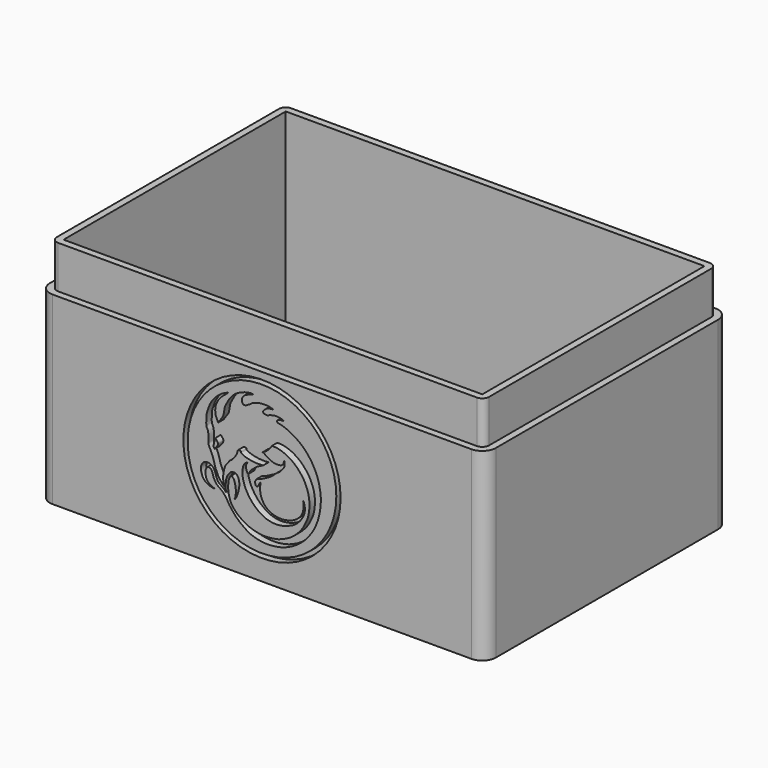
from build123d import *

# Parameters (mm, degrees)
F5_W      = 104.4
F5_H      = 71.4
F7_DEPTH  = 53.2
F4_W      = 98
F4_H      = 65
F8_DEPTH  = 50
F9_R      = 3.2
F12_START = 34.1
F10_R     = 18.4
F10_R_2   = 17.4
F12_DEPTH = 1.6
F13_START = -34.1
F13_DEPTH = 1.6
F6_W      = 104.4
F6_H      = 71.4
F6_W_2    = 101.2
F6_H_2    = 68.2
F14_DEPTH = 10
F15_R     = 1.6


with BuildPart() as f7:
    # F5 (on Top) → F7 (new body)
    with BuildSketch(Plane.XY):
        Rectangle(F5_W, F5_H)
    extrude(amount=-F7_DEPTH)

    # F4 (on Top) → F8 (cut)
    with BuildSketch(Plane.XY):
        Rectangle(F4_W, F4_H)
    extrude(amount=-F8_DEPTH, mode=Mode.SUBTRACT)

    # F9
    f9_edges = [f7.edges().sort_by_distance(p)[0] for p in [
        (-52.2, 35.7, -26.6),
        (52.2, 35.7, -26.6),
        (52.2, -35.7, -26.6),
        (-52.2, -35.7, -26.6),
    ]]
    fillet(f9_edges, radius=F9_R)

    # F11 (on Front) + F10 (on Front) → F12 (cut)
    with BuildSketch(Plane.XZ.offset(F12_START)):
        with BuildLine():
            add(Edge.make_bspline(
                [(-8.7181907147, -36.4885218441), (-8.6552114295, -36.4251532572), (-9.1774197329, -35.3604223824), (-9.0763019791, -34.0029444977), (-8.828732201, -32.8423084527), (-8.5498700199, -31.9286806131), (-7.7328841636, -31.1172117678), (-7.6823945529, -30.7812770575), (-7.0763392584, -30.5117558951), (-6.4689414057, -29.8069032301), (-6.0230796881, -29.1314206897), (-5.7451191394, -28.4740972303), (-5.6880337443, -27.8750404337), (-5.3456063537, -27.9084773912), (-5.1126380176, -27.9067488714), (-4.8925945184, -27.8870948801), (-4.8866175598, -28.3553030116), (-4.7108632793, -28.3762917472), (-4.0061202728, -28.7799613291), (-3.4185608792, -28.9092313022), (-2.3620370455, -29.1692663245), (-1.2254694638, -29.2396805568), (-0.3893782089, -29.2748124819), (0.6377939585, -29.1054223146), (-0.913640333, -29.709655676), (-1.7728883921, -30.3889449982), (-2.8497735888, -31.3080420127), (-3.2332788353, -32.418780918), (-3.6169238053, -31.4607617548), (-3.8245092878, -30.8034843996), (-3.7040138594, -30.1802180618), (-3.085686736, -29.5911494866), (-4.029609236, -30.0417210541), (-4.465190418, -30.8930904609), (-4.606683454, -32.0735455565), (-4.5768331238, -32.8928463105), (-4.3683268923, -33.7484634069), (-4.061538293, -34.9651611557), (-3.2734661836, -36.3538217502), (-2.4426976646, -37.5208090554), (-1.4551209592, -38.4775585832), (-0.6451184496, -39.0912512473), (0.1471500176, -39.5866193486), (1.0486648407, -40.0125001972), (2.3475154728, -40.3158560034), (3.6092467825, -40.360442254), (4.7236643023, -40.1927927906), (5.8315007774, -39.9304567946), (6.7718574592, -39.4824379165), (7.5021039042, -39.1645628899), (8.2059119951, -38.5962864819), (8.8773120111, -37.9342974406), (9.4662836259, -37.0704112976), (9.8640937575, -36.3033210805), (10.1086653911, -35.1833315934), (9.9868571353, -34.3885924415), (9.8069657923, -33.6392235744), (9.5669974709, -33.382485466), (9.7500237722, -33.7870908809), (9.771110973, -34.7722507818), (9.604890861, -35.8154332896), (9.166111718, -36.7759248645), (8.0262577799, -37.8850653183), (6.7399501479, -38.4898677639), (5.1912056338, -38.8577200045), (3.9314687591, -38.8393551313), (2.7119090153, -38.6317517814), (1.5918094549, -38.1189842017), (0.7392860548, -37.4522260981), (0.1333106206, -36.57206621), (-0.2722250838, -35.6816129951), (-0.4855824935, -34.5565912609), (-0.4119791522, -33.4140087553), (-0.3275560644, -33.0858288862), (-0.2852217109, -32.7480392613), (-0.5053907661, -33.0260593114), (-0.6193883659, -33.2047051451), (-0.7849410845, -33.6766096018), (-0.9825706401, -33.9204455282), (-1.2407352633, -34.0332197752), (-1.3976409308, -33.9997114595), (-1.542563198, -33.7187065789), (-1.5866921597, -33.4829939227), (-1.6239637387, -33.1381126583), (-1.506980112, -32.8670098089), (-1.2664035746, -32.5124032347), (-1.1895786855, -32.4243864711), (-0.410307392, -32.2620018142), (0.2731496713, -31.9210131692), (1.5532849537, -31.2656510126), (1.9816652711, -30.9686339146), (2.5933790649, -30.5712013727), (3.0610475122, -30.0713670994), (3.4845216358, -29.6455904318), (4.2224434181, -29.3342287118), (4.4793713513, -28.8334328995), (4.84210541, -28.5311016173), (5.2390010427, -27.995720586), (5.3560023277, -27.215525116), (5.3056372824, -26.8144170231), (5.0952073765, -26.3902337537), (5.1846268016, -26.7727281397), (5.0782546879, -27.1054745911), (4.9148621934, -27.5086207027), (4.6343932226, -27.7396789629), (4.2510427445, -27.8817191101), (3.5487959603, -27.974061997), (2.6013579068, -27.8680122341), (1.5208287079, -27.3757705796), (0.7432212486, -26.8276157169), (0.3491677762, -26.5492549304), (0.1082770913, -26.5124145935), (0.3532088925, -26.3908108204), (1.0975019636, -26.007864144), (1.5987293688, -25.4316149521), (2.179907441, -24.8422674238), (2.2666788699, -24.5900209394), (2.3178458846, -24.467206256), (2.4979546544, -24.5258888387), (3.1374792307, -24.4771387446), (3.830620708, -24.6224778435), (4.6683928777, -24.8322473211), (5.458638387, -25.1619129219), (6.0213728289, -25.4025431362), (6.60963825, -25.7774625288), (7.1673500281, -26.1300368431), (7.9790896417, -26.8056272808), (8.5934295083, -27.4569472157), (9.2497931543, -28.2370491721), (9.6576042275, -28.8482063769), (10.0282651308, -29.4670795928), (10.3363991668, -30.1401661259), (10.6879102506, -31.0332242307), (10.9068898785, -31.804709397), (11.0008157478, -32.5509260726), (11.1903335413, -33.6728545382), (11.0829901611, -34.8703630935), (10.8308969126, -36.447675056), (10.4228252011, -37.417217485), (9.8296817813, -38.6982374774), (9.0947144426, -39.778049455), (7.9022561596, -41.0590657134), (6.7563945112, -41.9234034282), (5.8217118639, -42.4559340155), (4.5337607716, -43.0524179279), (3.2606677742, -43.4468807177), (1.4687142295, -43.6379941278), (0.4409152373, -43.6735141019), (-0.6929114492, -43.5650223766), (-2.1438640859, -43.2119024447), (-3.1253785068, -42.8676694677), (-4.2821045125, -42.2291113881), (-5.375192444, -41.5295242193), (-6.3200161956, -40.6749119875), (-7.1852407631, -39.5885698805), (-7.6332757481, -38.411523213), (-7.8832899779, -37.2886216642), (-7.9430802304, -36.0376486105), (-7.8498872215, -34.9411224754), (-7.6311094477, -34.3157870486), (-7.2944607493, -33.823787552), (-7.0931632601, -33.6670287029), (-6.9529418322, -33.8476401052), (-6.564929655, -34.2328357187), (-6.2873640142, -35.0348691251), (-6.1076005183, -36.0395686381), (-6.1045254871, -37.2647471274), (-6.2545753282, -38.0179604746), (-6.5065743973, -38.434092711), (-6.1362766202, -38.0868575882), (-5.8632883216, -37.5624521757), (-5.4808001948, -36.4243609401), (-5.2564957019, -35.2092862583), (-5.3158651644, -34.1817666536), (-5.6579314725, -33.3281382094), (-5.8697272146, -33.1608253373), (-6.2275560454, -32.7958210179), (-6.9456241663, -32.8620688942), (-7.1888993988, -32.8984238787), (-7.5390130992, -33.2146939438), (-8.0184591025, -33.8476526615), (-8.4193886193, -34.7186547006), (-8.5063589971, -35.9737161029), (-8.4741900302, -36.4352402348), (-8.4881180962, -37.3027013776), (-8.4312539775, -37.6549512759), (-8.6081403421, -37.289478484), (-9.052123137, -36.8929386288), (-9.722820911, -36.4265168393), (-9.9366265326, -36.3243245607), (-10.341455275, -35.9085333834), (-10.5685085882, -35.4078389186), (-10.775050852, -34.906534787), (-10.9115923097, -34.2776664251), (-11.1943963869, -33.6617835629), (-11.6053311316, -33.1630776441), (-12.437225165, -32.7485214016), (-13.1545034449, -32.7620879422), (-13.7647449242, -33.0771859179), (-14.1679877704, -33.7070781478), (-14.4104952103, -34.5633170643), (-14.1690665292, -35.3643036083), (-13.938075538, -36.1039594073), (-13.5398936248, -36.6486867479), (-13.0119494518, -37.1108543674), (-12.444267481, -37.4022790557), (-11.7278923102, -37.6074750822), (-11.3867921296, -37.6965702284), (-11.0507333017, -37.6043335493), (-11.4082162329, -37.5773148641), (-11.9061390081, -37.2789636971), (-12.5999770018, -36.8811581433), (-13.1060968781, -36.125581855), (-13.2315737478, -35.2637957693), (-13.2184581343, -34.4072209811), (-13.0021806245, -34.1290830295), (-12.7889496541, -33.7273060458), (-12.5137126323, -33.6364067188), (-12.2941489511, -33.7499492071), (-11.9233248626, -33.8147967888), (-11.6066556006, -34.4786957663), (-11.404664192, -35.1848336026), (-11.2542153795, -35.6359047436), (-10.985014711, -36.0863080262), (-10.7125308972, -36.5033147574), (-10.4573426105, -36.7437926918), (-9.754690451, -37.2520059403), (-9.1015477127, -37.7474279081), (-8.6279720185, -38.3625958907), (-8.2144707514, -38.8856827642), (-7.782816716, -39.7483217824), (-7.1148552453, -40.6202979909), (-6.1808412038, -41.7722345522), (-5.7151376509, -42.175752819), (-5.1380879544, -42.7499303199), (-4.1163691675, -43.4548704708), (-3.1117823752, -44.1527351321), (-1.8556867948, -44.6490697327), (-0.2435358307, -45.042662804), (1.6570564387, -45.1292058944), (2.988059599, -45.0144464701), (4.5376284804, -44.7405461747), (5.9819197253, -44.2239205694), (7.6363003606, -43.4015429542), (9.1316199738, -42.3026717139), (10.300932367, -41.2106644728), (11.2197463336, -40.0300190285), (12.137064416, -38.7220063294), (12.830003012, -37.1053780891), (13.3261307194, -35.7243828554), (13.6611694576, -33.9096336009), (13.7755273364, -32.5408383421), (13.7920974197, -31.0797439273), (13.5160723658, -29.4201281539), (13.2556487, -28.2031311972), (12.6453869863, -26.6128810613), (12.2094156015, -25.7886778193), (11.6343853152, -24.751999127), (10.8869610678, -23.7131137675), (10.0175935881, -22.7168818397), (8.9849140639, -21.7867918211), (7.7988024974, -20.9293910474), (6.8608428204, -20.4448441541), (6.0284213657, -19.9929947649), (4.637495892, -19.4754138889), (3.8037073426, -19.349789141), (3.6248951803, -19.2848008433), (3.4874185895, -19.106688827), (3.4891812767, -18.8740136127), (3.6989623285, -18.7602710903), (4.0707164221, -18.5920488081), (4.3350781236, -18.5218775521), (4.8063781394, -18.4779916837), (5.1377190673, -18.5505109724), (4.8533700284, -18.2562255568), (4.3346655397, -18.1571113596), (3.5473476757, -18.0275050265), (2.6148213241, -18.0726771032), (1.5587590102, -18.4155132083), (1.1987079383, -18.6218463596), (0.950796033, -18.5299519962), (0.6152422429, -18.5196358919), (0.41106126, -18.398197234), (0.283045041, -18.3416541432), (0.2576728132, -18.1698288822), (0.1331039609, -18.0633826452), (0.527561436, -17.7087851589), (0.8682045583, -17.3201479975), (1.5487025801, -17.0012234802), (2.2175412968, -16.9566706163), (2.4567695139, -16.9372002991), (2.763921487, -16.9439694524), (2.3945053929, -16.798587949), (1.9190654201, -16.6344831544), (1.1391565838, -16.5390947941), (-0.2303868686, -16.5068481542), (-1.2110542395, -16.8137087923), (-2.0986010774, -17.0263339227), (-2.4262884404, -17.3589911258), (-3.131194887, -17.768900336), (-3.5140352893, -18.0100173475), (-3.8247600528, -18.152863301), (-4.2084150263, -18.2229472215), (-4.443171227, -18.0865318863), (-4.608169843, -17.9168056006), (-4.6487550758, -17.7029720977), (-4.7208414004, -17.2535627492), (-4.6606321225, -16.9053896982), (-4.4211674051, -16.4664487801), (-3.9723502457, -16.0994882976), (-3.2895840807, -15.7540042149), (-2.4296455127, -15.4222995088), (-2.0532457101, -15.3209257254), (-2.4578234328, -15.2124766358), (-3.3171071159, -15.3127234317), (-4.2562308746, -15.5561872599), (-5.3970072514, -16.0143788552), (-6.4181594755, -16.6212377105), (-7.336559727, -17.6324334464), (-7.8583967135, -18.384104161), (-8.3678359539, -19.3441915617), (-8.5972140045, -19.8422849472), (-8.6929577488, -19.9887712491), (-8.7335681219, -20.4414236168), (-8.8999050407, -21.3111365064), (-9.0240628387, -22.0017881186), (-9.5546648271, -22.8235895037), (-9.9654490598, -23.3583207436), (-10.1536421065, -23.4970763943), (-10.213538541, -23.8659534419), (-10.331106026, -23.5895529239), (-10.4292964137, -23.3589459655), (-10.7368609556, -22.7510350288), (-10.9228637586, -22.226619996), (-10.9609091771, -21.329408833), (-10.8877016644, -20.6252332755), (-10.6202247043, -19.831751459), (-10.138904862, -18.9346516226), (-9.3824890807, -18.1125730616), (-8.5915631591, -17.4527060793), (-8.289522873, -17.2324254668), (-7.9075319347, -16.9207389251), (-7.8988157941, -16.7680642015), (-8.1164426654, -16.9313719307), (-8.7557946553, -17.1968150685), (-9.8373885994, -17.757678619), (-11.4263719962, -19.2008295144), (-12.2886114414, -20.7718199035), (-12.5857488379, -21.7005179826), (-13.0064518912, -22.7929649545), (-12.9939906853, -23.6406732167), (-13.0856029941, -24.5251861629), (-13.0133293687, -25.4611617355), (-12.9820175974, -25.5726392187), (-12.8159657584, -25.7491705622), (-12.5818671562, -26.4427457116), (-12.5049713187, -27.2431368054), (-12.5412521119, -28.0735774986), (-12.5940025899, -28.8680597164), (-12.4565274214, -29.126460692), (-12.2200027454, -29.5914364591), (-11.8826138075, -30.337429066), (-11.5074020388, -31.1571663571), (-11.3084242069, -31.8849191304), (-11.0581491809, -32.8911123786), (-10.7987494842, -33.6014051798), (-10.445861084, -34.2589841213), (-10.2705621772, -34.7028096524), (-9.9483539332, -35.2413553373), (-9.5058573209, -35.7678544614), (-9.1076615491, -36.220855579), (-8.923155888, -36.4088619227), (-8.7445474014, -36.5150414528), (-8.7181907147, -36.4885218441)],
                knots=[0, 0, 0, 0, 0.0032226753, 0.0071141027, 0.0105075841, 0.0136462602, 0.0169363882, 0.0186631925, 0.0210957184, 0.0241771479, 0.0270402821, 0.029757293, 0.0320012069, 0.0336244032, 0.0352047833, 0.0364758286, 0.0384151137, 0.039640213, 0.0424030286, 0.0449562496, 0.0482171813, 0.0516075443, 0.0547017562, 0.0569848909, 0.0602708324, 0.0638908559, 0.0677177818, 0.0704677941, 0.0730411046, 0.0758019932, 0.078363795, 0.0805663211, 0.0830356253, 0.0862558246, 0.0896743212, 0.0925244468, 0.0954418508, 0.0989787509, 0.102978468, 0.1067976162, 0.1104828341, 0.1136650262, 0.1166795328, 0.1198283078, 0.1234749471, 0.1270340668, 0.1303819896, 0.1337591089, 0.1369714966, 0.1397818551, 0.1427510696, 0.1458453771, 0.1490466777, 0.1520166167, 0.1553392938, 0.1582423604, 0.1610432164, 0.162395203, 0.1640039688, 0.1672156598, 0.1704821595, 0.1736967468, 0.1776214496, 0.181426695, 0.1853810017, 0.1889283225, 0.1924225424, 0.1959134261, 0.1991896721, 0.2024201954, 0.2055271729, 0.2089634208, 0.2122981295, 0.214231638, 0.2156148427, 0.2170931532, 0.2186976681, 0.2208912702, 0.2226915925, 0.2242947926, 0.2254672688, 0.2271710056, 0.2287742042, 0.2305745239, 0.2323475426, 0.2343578267, 0.2354299498, 0.2380823274, 0.2410541263, 0.2447811479, 0.2471245275, 0.2497633062, 0.2523842226, 0.2548439403, 0.2576186182, 0.2599303323, 0.262070454, 0.2646380298, 0.2674036659, 0.2695507985, 0.2712232926, 0.2726858467, 0.2746635146, 0.2767240361, 0.2785788969, 0.2805628361, 0.2831879524, 0.2862822559, 0.2897506478, 0.2928610022, 0.2950566553, 0.2962487896, 0.2975105011, 0.3004162221, 0.3033108437, 0.3061445753, 0.307736486, 0.308716005, 0.3099299108, 0.3124309653, 0.3151475032, 0.3180959732, 0.3210160989, 0.3234974532, 0.3260861236, 0.3286813234, 0.3318977025, 0.3349498, 0.338117483, 0.3408394754, 0.3434836892, 0.3462173526, 0.3493190772, 0.3521377582, 0.3548676316, 0.3581908955, 0.3617204643, 0.3656741565, 0.368953975, 0.3726407065, 0.3762942235, 0.3804764437, 0.3842531135, 0.3875265812, 0.3912323981, 0.3949577706, 0.3991678957, 0.402378238, 0.405731882, 0.4095808841, 0.4128317763, 0.4164287522, 0.4200428834, 0.4236082028, 0.4273177638, 0.4308442469, 0.4342273951, 0.4377874763, 0.4410838629, 0.4436727604, 0.4460972582, 0.4474824957, 0.4487955766, 0.4511048752, 0.4540014448, 0.4572344575, 0.4607504964, 0.4636163332, 0.4652404756, 0.4669480257, 0.4694829092, 0.472937988, 0.4764799261, 0.4797398848, 0.4826600085, 0.4842736246, 0.4864449603, 0.489061655, 0.4906196144, 0.4926879787, 0.4954966284, 0.4986637199, 0.5021270039, 0.5043967151, 0.5073808635, 0.5087909092, 0.5103361948, 0.5129371805, 0.5157516791, 0.5173167467, 0.5196438645, 0.522023329, 0.5243378859, 0.5268733529, 0.5294522148, 0.5319841056, 0.5349816148, 0.5376256094, 0.5401592471, 0.5428623854, 0.5457985234, 0.5486716407, 0.5514433994, 0.554023206, 0.5566371029, 0.5591963186, 0.5619039011, 0.5638715156, 0.5652791273, 0.5666867389, 0.5691674745, 0.5720033438, 0.5749519727, 0.5779504867, 0.5807976842, 0.5826655585, 0.5847460565, 0.5863318964, 0.5878500526, 0.5896837641, 0.5923279749, 0.5950822774, 0.5972508297, 0.5995397436, 0.6017344984, 0.6036017565, 0.6065107822, 0.6094389214, 0.6121809607, 0.6147574451, 0.6178011764, 0.6212133168, 0.6250311021, 0.6275091741, 0.6302951272, 0.6338280131, 0.6373364562, 0.6409697059, 0.6450725629, 0.649416573, 0.6530915774, 0.6570009868, 0.6609290228, 0.6652220041, 0.669542355, 0.6735269605, 0.677368346, 0.6813735702, 0.6855353219, 0.6894064961, 0.6936656783, 0.6973828547, 0.7012000344, 0.7052626702, 0.7088698135, 0.7129331159, 0.716022381, 0.7194095787, 0.7230047782, 0.72662953, 0.7303802495, 0.7342093457, 0.7374152601, 0.7405045253, 0.7444179846, 0.7472558689, 0.7485524995, 0.7499883756, 0.751398408, 0.752884204, 0.7548891312, 0.7565895682, 0.7588284345, 0.7602638498, 0.7618278584, 0.7641815854, 0.7669865626, 0.7701068117, 0.7734354851, 0.7753777341, 0.77692154, 0.7787521717, 0.7802814233, 0.7814065992, 0.78266561, 0.7837243016, 0.7858309141, 0.7882022976, 0.7909303102, 0.7934867791, 0.7951380429, 0.7964414504, 0.7979808232, 0.8003044952, 0.8031094718, 0.8067992246, 0.8100854702, 0.8129999796, 0.8151670718, 0.8179960296, 0.8201452107, 0.8219789233, 0.8239039461, 0.825516594, 0.8269957437, 0.8284595981, 0.830567944, 0.8324602656, 0.8346388356, 0.8370126533, 0.8398348911, 0.8429629089, 0.8444601292, 0.8460241381, 0.8490131693, 0.8521802572, 0.8556558615, 0.8591352334, 0.862778181, 0.8658624745, 0.8691737601, 0.8714468202, 0.8726906322, 0.8747513069, 0.8777453955, 0.8804340224, 0.8835694885, 0.8861289493, 0.8876971847, 0.8892391517, 0.8905250953, 0.89222773, 0.8947806264, 0.8972023592, 0.9001516759, 0.9028319043, 0.9056857658, 0.9088659384, 0.912275215, 0.9154237303, 0.9174465566, 0.919610848, 0.9204708124, 0.9218161663, 0.9244327103, 0.927939052, 0.9326037003, 0.9368100274, 0.9399448352, 0.9433010596, 0.9461892411, 0.9492838206, 0.9522579392, 0.9532583735, 0.9546942505, 0.9573715221, 0.9602519734, 0.9631991739, 0.9659523116, 0.9676098498, 0.9698316368, 0.9727348713, 0.9757293112, 0.9785010715, 0.9816964157, 0.9844975155, 0.987182166, 0.9893672564, 0.9918387169, 0.9945166197, 0.9969437676, 0.9986513177, 1, 1, 1, 1], degree=3))
        make_face()
        with BuildLine():
            add(Edge.make_bspline(
                [(-11.1182816327, -29.5231714845), (-11.1378762604, -29.5189717751), (-11.1615200437, -29.3683435086), (-11.2319492153, -29.2360795012), (-11.3232073662, -29.1313068621), (-11.3661090548, -28.8466749707), (-11.2573706716, -28.6073429485), (-11.2154777294, -28.1950303265), (-11.0844300823, -27.7908526082), (-11.1713114293, -27.6341131874), (-10.9809476312, -27.4086856182), (-10.9124823839, -27.2475683532), (-10.8723892603, -27.1060188204), (-10.8413085785, -27.2403711485), (-10.747105542, -27.341068211), (-10.6387270329, -27.4954927316), (-10.5177957754, -27.6295201495), (-10.4146003474, -27.7966046931), (-10.3131530363, -28.0060249287), (-10.3167280479, -28.2217595354), (-10.3538043066, -28.4661170499), (-10.4686782581, -28.7345713553), (-10.611542868, -28.8977768931), (-10.7700618046, -29.0788008058), (-10.8896038537, -29.1911362474), (-10.9809801732, -29.3427708449), (-11.0565881392, -29.4376834096), (-11.1027692952, -29.5264962381), (-11.1182816327, -29.5231714845)],
                knots=[0, 0, 0, 0, 0.0329570738, 0.0681820509, 0.0999322894, 0.144640051, 0.1891171883, 0.245908248, 0.3015454626, 0.3351171911, 0.3798280112, 0.4190208364, 0.4445244081, 0.4694323559, 0.5031400961, 0.5407347013, 0.5776328499, 0.6161568993, 0.6575944986, 0.697423719, 0.7407643073, 0.7872322271, 0.828110789, 0.8702650176, 0.9057858033, 0.9415949443, 0.9739091113, 1, 1, 1, 1], degree=3))
        make_face(mode=Mode.SUBTRACT)
    with BuildSketch(Plane.XZ.offset(F12_START)):
        with Locations((0, -30)):
            Circle(F10_R)
        with Locations((0, -30)):
            Circle(F10_R_2, mode=Mode.SUBTRACT)
    extrude(amount=F12_DEPTH, mode=Mode.SUBTRACT)

    # F11 (on Front) + F10 (on Front) → F13 (cut)
    with BuildSketch(Plane.XZ.offset(F13_START)):
        with BuildLine():
            add(Edge.make_bspline(
                [(-8.7181907147, -36.4885218441), (-8.6552114295, -36.4251532572), (-9.1774197329, -35.3604223824), (-9.0763019791, -34.0029444977), (-8.828732201, -32.8423084527), (-8.5498700199, -31.9286806131), (-7.7328841636, -31.1172117678), (-7.6823945529, -30.7812770575), (-7.0763392584, -30.5117558951), (-6.4689414057, -29.8069032301), (-6.0230796881, -29.1314206897), (-5.7451191394, -28.4740972303), (-5.6880337443, -27.8750404337), (-5.3456063537, -27.9084773912), (-5.1126380176, -27.9067488714), (-4.8925945184, -27.8870948801), (-4.8866175598, -28.3553030116), (-4.7108632793, -28.3762917472), (-4.0061202728, -28.7799613291), (-3.4185608792, -28.9092313022), (-2.3620370455, -29.1692663245), (-1.2254694638, -29.2396805568), (-0.3893782089, -29.2748124819), (0.6377939585, -29.1054223146), (-0.913640333, -29.709655676), (-1.7728883921, -30.3889449982), (-2.8497735888, -31.3080420127), (-3.2332788353, -32.418780918), (-3.6169238053, -31.4607617548), (-3.8245092878, -30.8034843996), (-3.7040138594, -30.1802180618), (-3.085686736, -29.5911494866), (-4.029609236, -30.0417210541), (-4.465190418, -30.8930904609), (-4.606683454, -32.0735455565), (-4.5768331238, -32.8928463105), (-4.3683268923, -33.7484634069), (-4.061538293, -34.9651611557), (-3.2734661836, -36.3538217502), (-2.4426976646, -37.5208090554), (-1.4551209592, -38.4775585832), (-0.6451184496, -39.0912512473), (0.1471500176, -39.5866193486), (1.0486648407, -40.0125001972), (2.3475154728, -40.3158560034), (3.6092467825, -40.360442254), (4.7236643023, -40.1927927906), (5.8315007774, -39.9304567946), (6.7718574592, -39.4824379165), (7.5021039042, -39.1645628899), (8.2059119951, -38.5962864819), (8.8773120111, -37.9342974406), (9.4662836259, -37.0704112976), (9.8640937575, -36.3033210805), (10.1086653911, -35.1833315934), (9.9868571353, -34.3885924415), (9.8069657923, -33.6392235744), (9.5669974709, -33.382485466), (9.7500237722, -33.7870908809), (9.771110973, -34.7722507818), (9.604890861, -35.8154332896), (9.166111718, -36.7759248645), (8.0262577799, -37.8850653183), (6.7399501479, -38.4898677639), (5.1912056338, -38.8577200045), (3.9314687591, -38.8393551313), (2.7119090153, -38.6317517814), (1.5918094549, -38.1189842017), (0.7392860548, -37.4522260981), (0.1333106206, -36.57206621), (-0.2722250838, -35.6816129951), (-0.4855824935, -34.5565912609), (-0.4119791522, -33.4140087553), (-0.3275560644, -33.0858288862), (-0.2852217109, -32.7480392613), (-0.5053907661, -33.0260593114), (-0.6193883659, -33.2047051451), (-0.7849410845, -33.6766096018), (-0.9825706401, -33.9204455282), (-1.2407352633, -34.0332197752), (-1.3976409308, -33.9997114595), (-1.542563198, -33.7187065789), (-1.5866921597, -33.4829939227), (-1.6239637387, -33.1381126583), (-1.506980112, -32.8670098089), (-1.2664035746, -32.5124032347), (-1.1895786855, -32.4243864711), (-0.410307392, -32.2620018142), (0.2731496713, -31.9210131692), (1.5532849537, -31.2656510126), (1.9816652711, -30.9686339146), (2.5933790649, -30.5712013727), (3.0610475122, -30.0713670994), (3.4845216358, -29.6455904318), (4.2224434181, -29.3342287118), (4.4793713513, -28.8334328995), (4.84210541, -28.5311016173), (5.2390010427, -27.995720586), (5.3560023277, -27.215525116), (5.3056372824, -26.8144170231), (5.0952073765, -26.3902337537), (5.1846268016, -26.7727281397), (5.0782546879, -27.1054745911), (4.9148621934, -27.5086207027), (4.6343932226, -27.7396789629), (4.2510427445, -27.8817191101), (3.5487959603, -27.974061997), (2.6013579068, -27.8680122341), (1.5208287079, -27.3757705796), (0.7432212486, -26.8276157169), (0.3491677762, -26.5492549304), (0.1082770913, -26.5124145935), (0.3532088925, -26.3908108204), (1.0975019636, -26.007864144), (1.5987293688, -25.4316149521), (2.179907441, -24.8422674238), (2.2666788699, -24.5900209394), (2.3178458846, -24.467206256), (2.4979546544, -24.5258888387), (3.1374792307, -24.4771387446), (3.830620708, -24.6224778435), (4.6683928777, -24.8322473211), (5.458638387, -25.1619129219), (6.0213728289, -25.4025431362), (6.60963825, -25.7774625288), (7.1673500281, -26.1300368431), (7.9790896417, -26.8056272808), (8.5934295083, -27.4569472157), (9.2497931543, -28.2370491721), (9.6576042275, -28.8482063769), (10.0282651308, -29.4670795928), (10.3363991668, -30.1401661259), (10.6879102506, -31.0332242307), (10.9068898785, -31.804709397), (11.0008157478, -32.5509260726), (11.1903335413, -33.6728545382), (11.0829901611, -34.8703630935), (10.8308969126, -36.447675056), (10.4228252011, -37.417217485), (9.8296817813, -38.6982374774), (9.0947144426, -39.778049455), (7.9022561596, -41.0590657134), (6.7563945112, -41.9234034282), (5.8217118639, -42.4559340155), (4.5337607716, -43.0524179279), (3.2606677742, -43.4468807177), (1.4687142295, -43.6379941278), (0.4409152373, -43.6735141019), (-0.6929114492, -43.5650223766), (-2.1438640859, -43.2119024447), (-3.1253785068, -42.8676694677), (-4.2821045125, -42.2291113881), (-5.375192444, -41.5295242193), (-6.3200161956, -40.6749119875), (-7.1852407631, -39.5885698805), (-7.6332757481, -38.411523213), (-7.8832899779, -37.2886216642), (-7.9430802304, -36.0376486105), (-7.8498872215, -34.9411224754), (-7.6311094477, -34.3157870486), (-7.2944607493, -33.823787552), (-7.0931632601, -33.6670287029), (-6.9529418322, -33.8476401052), (-6.564929655, -34.2328357187), (-6.2873640142, -35.0348691251), (-6.1076005183, -36.0395686381), (-6.1045254871, -37.2647471274), (-6.2545753282, -38.0179604746), (-6.5065743973, -38.434092711), (-6.1362766202, -38.0868575882), (-5.8632883216, -37.5624521757), (-5.4808001948, -36.4243609401), (-5.2564957019, -35.2092862583), (-5.3158651644, -34.1817666536), (-5.6579314725, -33.3281382094), (-5.8697272146, -33.1608253373), (-6.2275560454, -32.7958210179), (-6.9456241663, -32.8620688942), (-7.1888993988, -32.8984238787), (-7.5390130992, -33.2146939438), (-8.0184591025, -33.8476526615), (-8.4193886193, -34.7186547006), (-8.5063589971, -35.9737161029), (-8.4741900302, -36.4352402348), (-8.4881180962, -37.3027013776), (-8.4312539775, -37.6549512759), (-8.6081403421, -37.289478484), (-9.052123137, -36.8929386288), (-9.722820911, -36.4265168393), (-9.9366265326, -36.3243245607), (-10.341455275, -35.9085333834), (-10.5685085882, -35.4078389186), (-10.775050852, -34.906534787), (-10.9115923097, -34.2776664251), (-11.1943963869, -33.6617835629), (-11.6053311316, -33.1630776441), (-12.437225165, -32.7485214016), (-13.1545034449, -32.7620879422), (-13.7647449242, -33.0771859179), (-14.1679877704, -33.7070781478), (-14.4104952103, -34.5633170643), (-14.1690665292, -35.3643036083), (-13.938075538, -36.1039594073), (-13.5398936248, -36.6486867479), (-13.0119494518, -37.1108543674), (-12.444267481, -37.4022790557), (-11.7278923102, -37.6074750822), (-11.3867921296, -37.6965702284), (-11.0507333017, -37.6043335493), (-11.4082162329, -37.5773148641), (-11.9061390081, -37.2789636971), (-12.5999770018, -36.8811581433), (-13.1060968781, -36.125581855), (-13.2315737478, -35.2637957693), (-13.2184581343, -34.4072209811), (-13.0021806245, -34.1290830295), (-12.7889496541, -33.7273060458), (-12.5137126323, -33.6364067188), (-12.2941489511, -33.7499492071), (-11.9233248626, -33.8147967888), (-11.6066556006, -34.4786957663), (-11.404664192, -35.1848336026), (-11.2542153795, -35.6359047436), (-10.985014711, -36.0863080262), (-10.7125308972, -36.5033147574), (-10.4573426105, -36.7437926918), (-9.754690451, -37.2520059403), (-9.1015477127, -37.7474279081), (-8.6279720185, -38.3625958907), (-8.2144707514, -38.8856827642), (-7.782816716, -39.7483217824), (-7.1148552453, -40.6202979909), (-6.1808412038, -41.7722345522), (-5.7151376509, -42.175752819), (-5.1380879544, -42.7499303199), (-4.1163691675, -43.4548704708), (-3.1117823752, -44.1527351321), (-1.8556867948, -44.6490697327), (-0.2435358307, -45.042662804), (1.6570564387, -45.1292058944), (2.988059599, -45.0144464701), (4.5376284804, -44.7405461747), (5.9819197253, -44.2239205694), (7.6363003606, -43.4015429542), (9.1316199738, -42.3026717139), (10.300932367, -41.2106644728), (11.2197463336, -40.0300190285), (12.137064416, -38.7220063294), (12.830003012, -37.1053780891), (13.3261307194, -35.7243828554), (13.6611694576, -33.9096336009), (13.7755273364, -32.5408383421), (13.7920974197, -31.0797439273), (13.5160723658, -29.4201281539), (13.2556487, -28.2031311972), (12.6453869863, -26.6128810613), (12.2094156015, -25.7886778193), (11.6343853152, -24.751999127), (10.8869610678, -23.7131137675), (10.0175935881, -22.7168818397), (8.9849140639, -21.7867918211), (7.7988024974, -20.9293910474), (6.8608428204, -20.4448441541), (6.0284213657, -19.9929947649), (4.637495892, -19.4754138889), (3.8037073426, -19.349789141), (3.6248951803, -19.2848008433), (3.4874185895, -19.106688827), (3.4891812767, -18.8740136127), (3.6989623285, -18.7602710903), (4.0707164221, -18.5920488081), (4.3350781236, -18.5218775521), (4.8063781394, -18.4779916837), (5.1377190673, -18.5505109724), (4.8533700284, -18.2562255568), (4.3346655397, -18.1571113596), (3.5473476757, -18.0275050265), (2.6148213241, -18.0726771032), (1.5587590102, -18.4155132083), (1.1987079383, -18.6218463596), (0.950796033, -18.5299519962), (0.6152422429, -18.5196358919), (0.41106126, -18.398197234), (0.283045041, -18.3416541432), (0.2576728132, -18.1698288822), (0.1331039609, -18.0633826452), (0.527561436, -17.7087851589), (0.8682045583, -17.3201479975), (1.5487025801, -17.0012234802), (2.2175412968, -16.9566706163), (2.4567695139, -16.9372002991), (2.763921487, -16.9439694524), (2.3945053929, -16.798587949), (1.9190654201, -16.6344831544), (1.1391565838, -16.5390947941), (-0.2303868686, -16.5068481542), (-1.2110542395, -16.8137087923), (-2.0986010774, -17.0263339227), (-2.4262884404, -17.3589911258), (-3.131194887, -17.768900336), (-3.5140352893, -18.0100173475), (-3.8247600528, -18.152863301), (-4.2084150263, -18.2229472215), (-4.443171227, -18.0865318863), (-4.608169843, -17.9168056006), (-4.6487550758, -17.7029720977), (-4.7208414004, -17.2535627492), (-4.6606321225, -16.9053896982), (-4.4211674051, -16.4664487801), (-3.9723502457, -16.0994882976), (-3.2895840807, -15.7540042149), (-2.4296455127, -15.4222995088), (-2.0532457101, -15.3209257254), (-2.4578234328, -15.2124766358), (-3.3171071159, -15.3127234317), (-4.2562308746, -15.5561872599), (-5.3970072514, -16.0143788552), (-6.4181594755, -16.6212377105), (-7.336559727, -17.6324334464), (-7.8583967135, -18.384104161), (-8.3678359539, -19.3441915617), (-8.5972140045, -19.8422849472), (-8.6929577488, -19.9887712491), (-8.7335681219, -20.4414236168), (-8.8999050407, -21.3111365064), (-9.0240628387, -22.0017881186), (-9.5546648271, -22.8235895037), (-9.9654490598, -23.3583207436), (-10.1536421065, -23.4970763943), (-10.213538541, -23.8659534419), (-10.331106026, -23.5895529239), (-10.4292964137, -23.3589459655), (-10.7368609556, -22.7510350288), (-10.9228637586, -22.226619996), (-10.9609091771, -21.329408833), (-10.8877016644, -20.6252332755), (-10.6202247043, -19.831751459), (-10.138904862, -18.9346516226), (-9.3824890807, -18.1125730616), (-8.5915631591, -17.4527060793), (-8.289522873, -17.2324254668), (-7.9075319347, -16.9207389251), (-7.8988157941, -16.7680642015), (-8.1164426654, -16.9313719307), (-8.7557946553, -17.1968150685), (-9.8373885994, -17.757678619), (-11.4263719962, -19.2008295144), (-12.2886114414, -20.7718199035), (-12.5857488379, -21.7005179826), (-13.0064518912, -22.7929649545), (-12.9939906853, -23.6406732167), (-13.0856029941, -24.5251861629), (-13.0133293687, -25.4611617355), (-12.9820175974, -25.5726392187), (-12.8159657584, -25.7491705622), (-12.5818671562, -26.4427457116), (-12.5049713187, -27.2431368054), (-12.5412521119, -28.0735774986), (-12.5940025899, -28.8680597164), (-12.4565274214, -29.126460692), (-12.2200027454, -29.5914364591), (-11.8826138075, -30.337429066), (-11.5074020388, -31.1571663571), (-11.3084242069, -31.8849191304), (-11.0581491809, -32.8911123786), (-10.7987494842, -33.6014051798), (-10.445861084, -34.2589841213), (-10.2705621772, -34.7028096524), (-9.9483539332, -35.2413553373), (-9.5058573209, -35.7678544614), (-9.1076615491, -36.220855579), (-8.923155888, -36.4088619227), (-8.7445474014, -36.5150414528), (-8.7181907147, -36.4885218441)],
                knots=[0, 0, 0, 0, 0.0032226753, 0.0071141027, 0.0105075841, 0.0136462602, 0.0169363882, 0.0186631925, 0.0210957184, 0.0241771479, 0.0270402821, 0.029757293, 0.0320012069, 0.0336244032, 0.0352047833, 0.0364758286, 0.0384151137, 0.039640213, 0.0424030286, 0.0449562496, 0.0482171813, 0.0516075443, 0.0547017562, 0.0569848909, 0.0602708324, 0.0638908559, 0.0677177818, 0.0704677941, 0.0730411046, 0.0758019932, 0.078363795, 0.0805663211, 0.0830356253, 0.0862558246, 0.0896743212, 0.0925244468, 0.0954418508, 0.0989787509, 0.102978468, 0.1067976162, 0.1104828341, 0.1136650262, 0.1166795328, 0.1198283078, 0.1234749471, 0.1270340668, 0.1303819896, 0.1337591089, 0.1369714966, 0.1397818551, 0.1427510696, 0.1458453771, 0.1490466777, 0.1520166167, 0.1553392938, 0.1582423604, 0.1610432164, 0.162395203, 0.1640039688, 0.1672156598, 0.1704821595, 0.1736967468, 0.1776214496, 0.181426695, 0.1853810017, 0.1889283225, 0.1924225424, 0.1959134261, 0.1991896721, 0.2024201954, 0.2055271729, 0.2089634208, 0.2122981295, 0.214231638, 0.2156148427, 0.2170931532, 0.2186976681, 0.2208912702, 0.2226915925, 0.2242947926, 0.2254672688, 0.2271710056, 0.2287742042, 0.2305745239, 0.2323475426, 0.2343578267, 0.2354299498, 0.2380823274, 0.2410541263, 0.2447811479, 0.2471245275, 0.2497633062, 0.2523842226, 0.2548439403, 0.2576186182, 0.2599303323, 0.262070454, 0.2646380298, 0.2674036659, 0.2695507985, 0.2712232926, 0.2726858467, 0.2746635146, 0.2767240361, 0.2785788969, 0.2805628361, 0.2831879524, 0.2862822559, 0.2897506478, 0.2928610022, 0.2950566553, 0.2962487896, 0.2975105011, 0.3004162221, 0.3033108437, 0.3061445753, 0.307736486, 0.308716005, 0.3099299108, 0.3124309653, 0.3151475032, 0.3180959732, 0.3210160989, 0.3234974532, 0.3260861236, 0.3286813234, 0.3318977025, 0.3349498, 0.338117483, 0.3408394754, 0.3434836892, 0.3462173526, 0.3493190772, 0.3521377582, 0.3548676316, 0.3581908955, 0.3617204643, 0.3656741565, 0.368953975, 0.3726407065, 0.3762942235, 0.3804764437, 0.3842531135, 0.3875265812, 0.3912323981, 0.3949577706, 0.3991678957, 0.402378238, 0.405731882, 0.4095808841, 0.4128317763, 0.4164287522, 0.4200428834, 0.4236082028, 0.4273177638, 0.4308442469, 0.4342273951, 0.4377874763, 0.4410838629, 0.4436727604, 0.4460972582, 0.4474824957, 0.4487955766, 0.4511048752, 0.4540014448, 0.4572344575, 0.4607504964, 0.4636163332, 0.4652404756, 0.4669480257, 0.4694829092, 0.472937988, 0.4764799261, 0.4797398848, 0.4826600085, 0.4842736246, 0.4864449603, 0.489061655, 0.4906196144, 0.4926879787, 0.4954966284, 0.4986637199, 0.5021270039, 0.5043967151, 0.5073808635, 0.5087909092, 0.5103361948, 0.5129371805, 0.5157516791, 0.5173167467, 0.5196438645, 0.522023329, 0.5243378859, 0.5268733529, 0.5294522148, 0.5319841056, 0.5349816148, 0.5376256094, 0.5401592471, 0.5428623854, 0.5457985234, 0.5486716407, 0.5514433994, 0.554023206, 0.5566371029, 0.5591963186, 0.5619039011, 0.5638715156, 0.5652791273, 0.5666867389, 0.5691674745, 0.5720033438, 0.5749519727, 0.5779504867, 0.5807976842, 0.5826655585, 0.5847460565, 0.5863318964, 0.5878500526, 0.5896837641, 0.5923279749, 0.5950822774, 0.5972508297, 0.5995397436, 0.6017344984, 0.6036017565, 0.6065107822, 0.6094389214, 0.6121809607, 0.6147574451, 0.6178011764, 0.6212133168, 0.6250311021, 0.6275091741, 0.6302951272, 0.6338280131, 0.6373364562, 0.6409697059, 0.6450725629, 0.649416573, 0.6530915774, 0.6570009868, 0.6609290228, 0.6652220041, 0.669542355, 0.6735269605, 0.677368346, 0.6813735702, 0.6855353219, 0.6894064961, 0.6936656783, 0.6973828547, 0.7012000344, 0.7052626702, 0.7088698135, 0.7129331159, 0.716022381, 0.7194095787, 0.7230047782, 0.72662953, 0.7303802495, 0.7342093457, 0.7374152601, 0.7405045253, 0.7444179846, 0.7472558689, 0.7485524995, 0.7499883756, 0.751398408, 0.752884204, 0.7548891312, 0.7565895682, 0.7588284345, 0.7602638498, 0.7618278584, 0.7641815854, 0.7669865626, 0.7701068117, 0.7734354851, 0.7753777341, 0.77692154, 0.7787521717, 0.7802814233, 0.7814065992, 0.78266561, 0.7837243016, 0.7858309141, 0.7882022976, 0.7909303102, 0.7934867791, 0.7951380429, 0.7964414504, 0.7979808232, 0.8003044952, 0.8031094718, 0.8067992246, 0.8100854702, 0.8129999796, 0.8151670718, 0.8179960296, 0.8201452107, 0.8219789233, 0.8239039461, 0.825516594, 0.8269957437, 0.8284595981, 0.830567944, 0.8324602656, 0.8346388356, 0.8370126533, 0.8398348911, 0.8429629089, 0.8444601292, 0.8460241381, 0.8490131693, 0.8521802572, 0.8556558615, 0.8591352334, 0.862778181, 0.8658624745, 0.8691737601, 0.8714468202, 0.8726906322, 0.8747513069, 0.8777453955, 0.8804340224, 0.8835694885, 0.8861289493, 0.8876971847, 0.8892391517, 0.8905250953, 0.89222773, 0.8947806264, 0.8972023592, 0.9001516759, 0.9028319043, 0.9056857658, 0.9088659384, 0.912275215, 0.9154237303, 0.9174465566, 0.919610848, 0.9204708124, 0.9218161663, 0.9244327103, 0.927939052, 0.9326037003, 0.9368100274, 0.9399448352, 0.9433010596, 0.9461892411, 0.9492838206, 0.9522579392, 0.9532583735, 0.9546942505, 0.9573715221, 0.9602519734, 0.9631991739, 0.9659523116, 0.9676098498, 0.9698316368, 0.9727348713, 0.9757293112, 0.9785010715, 0.9816964157, 0.9844975155, 0.987182166, 0.9893672564, 0.9918387169, 0.9945166197, 0.9969437676, 0.9986513177, 1, 1, 1, 1], degree=3))
        make_face()
        with BuildLine():
            add(Edge.make_bspline(
                [(-11.1182816327, -29.5231714845), (-11.1378762604, -29.5189717751), (-11.1615200437, -29.3683435086), (-11.2319492153, -29.2360795012), (-11.3232073662, -29.1313068621), (-11.3661090548, -28.8466749707), (-11.2573706716, -28.6073429485), (-11.2154777294, -28.1950303265), (-11.0844300823, -27.7908526082), (-11.1713114293, -27.6341131874), (-10.9809476312, -27.4086856182), (-10.9124823839, -27.2475683532), (-10.8723892603, -27.1060188204), (-10.8413085785, -27.2403711485), (-10.747105542, -27.341068211), (-10.6387270329, -27.4954927316), (-10.5177957754, -27.6295201495), (-10.4146003474, -27.7966046931), (-10.3131530363, -28.0060249287), (-10.3167280479, -28.2217595354), (-10.3538043066, -28.4661170499), (-10.4686782581, -28.7345713553), (-10.611542868, -28.8977768931), (-10.7700618046, -29.0788008058), (-10.8896038537, -29.1911362474), (-10.9809801732, -29.3427708449), (-11.0565881392, -29.4376834096), (-11.1027692952, -29.5264962381), (-11.1182816327, -29.5231714845)],
                knots=[0, 0, 0, 0, 0.0329570738, 0.0681820509, 0.0999322894, 0.144640051, 0.1891171883, 0.245908248, 0.3015454626, 0.3351171911, 0.3798280112, 0.4190208364, 0.4445244081, 0.4694323559, 0.5031400961, 0.5407347013, 0.5776328499, 0.6161568993, 0.6575944986, 0.697423719, 0.7407643073, 0.7872322271, 0.828110789, 0.8702650176, 0.9057858033, 0.9415949443, 0.9739091113, 1, 1, 1, 1], degree=3))
        make_face(mode=Mode.SUBTRACT)
    with BuildSketch(Plane.XZ.offset(F13_START)):
        with Locations((0, -30)):
            Circle(F10_R)
        with Locations((0, -30)):
            Circle(F10_R_2, mode=Mode.SUBTRACT)
    extrude(amount=-F13_DEPTH, mode=Mode.SUBTRACT)

    # F6 (on Top) → F14 (cut)
    with BuildSketch(Plane.XY):
        Rectangle(F6_W, F6_H)
        Rectangle(F6_W_2, F6_H_2, mode=Mode.SUBTRACT)
    extrude(amount=-F14_DEPTH, mode=Mode.SUBTRACT)

    # F15
    f15_edges = [f7.edges().sort_by_distance(p)[0] for p in [
        (50.6, -34.1, -5),
        (-50.6, -34.1, -5),
        (50.6, 34.1, -5),
        (-50.6, 34.1, -5),
    ]]
    fillet(f15_edges, radius=F15_R)


solid = f7.part
